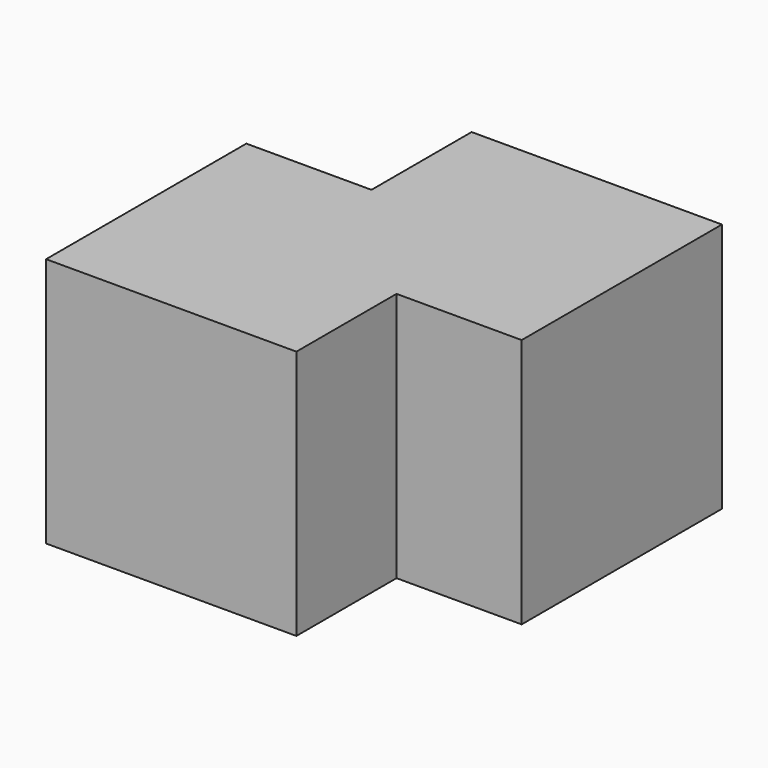
from build123d import *

# Parameters (mm, degrees)
BOX001_W     = 10
BOX001_H     = 10
BOX001_DEPTH = 10
BOX_W        = 10
BOX_H        = 10
BOX_DEPTH    = 10


with BuildPart() as cubo001:
    # Box001 → Box001 (new body)
    with BuildSketch(Plane(origin=(5, 5, 0), x_dir=(1, 0, 0), z_dir=(0, 0, 1))):
        with Locations((5, 5)):
            Rectangle(BOX001_W, BOX001_H)
    extrude(amount=BOX001_DEPTH)


with BuildPart() as fusion:
    # Box → Box (new body)
    with BuildSketch(Plane.XY):
        with Locations((5, 5)):
            Rectangle(BOX_W, BOX_H)
    extrude(amount=BOX_DEPTH)

    # Fusion: union Cubo001
    add(cubo001.part)


solid = fusion.part
